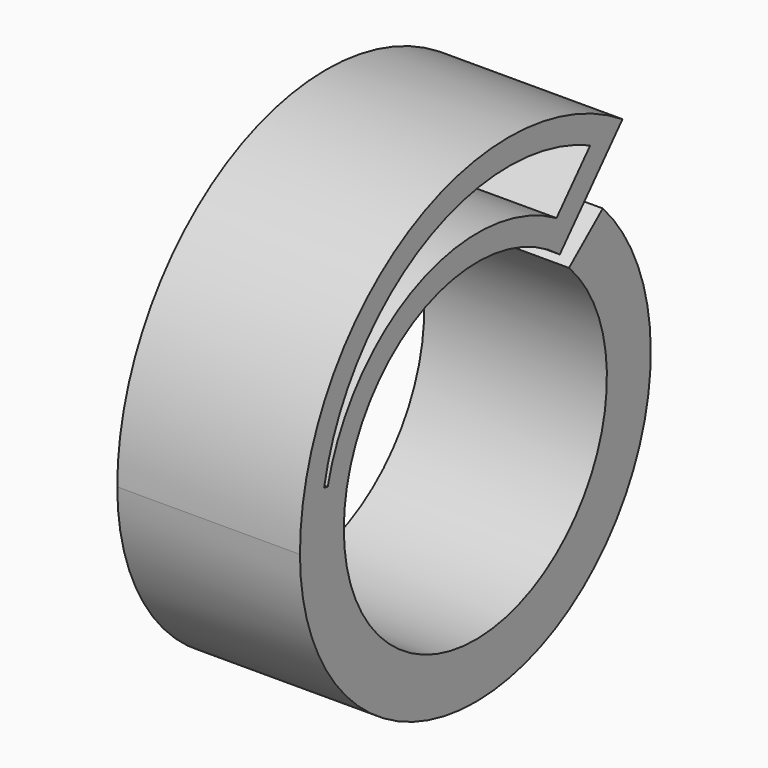
from build123d import *

# Parameters (mm, degrees)
F1_DEPTH = 2.5
F4_DEPTH = 25


with BuildPart() as f1:
    # F0 (on Right) → F1 (new body, symmetric)
    with BuildSketch(Plane.YZ):
        with BuildLine():
            ThreePointArc((3.202643, 3.161183), (1.708524, -4.163045), (-4.5, 0))
            ThreePointArc((-4.5, 0), (-1.933398, 4.11196), (2.888029, 3.61246))
            Line((2.888029, 3.61246), (5.033673, 6.000177))
            ThreePointArc((5.033673, 6.000177), (-2.266695, 6.27981), (-6, 0))
            ThreePointArc((-6, 0), (2.219356, -5.574447), (4.358153, 4.123894))
            Line((4.358153, 4.123894), (3.202643, 3.161183))
        make_face()
    extrude(amount=F1_DEPTH, both=True)

    # F3 (on face) → F4 (cut)
    with BuildSketch(Plane.YZ.offset(2.5)):
        with BuildLine():
            Line((2.775889, 4.534951), (3.928859, 5.817999))
            ThreePointArc((3.928859, 5.817999), (-1.733582, 5.768479), (-5.173602, 1.270486))
            Line((-5.173602, 1.270486), (-5.052092, 1.240646))
            ThreePointArc((-5.052092, 1.240646), (-1.969769, 4.864021), (2.775889, 4.534951))
        make_face()
    extrude(amount=-F4_DEPTH, mode=Mode.SUBTRACT)


with BuildPart() as f6:
    # F5 (on Right) → F6 (revolve)
    with BuildSketch(Plane.YZ):
        with BuildLine():
            Line((2.512218, 6.237931), (2.512218, 4.631747))
            ThreePointArc((2.512218, 4.631747), (3.31531, 5.434839), (2.512218, 6.237931))
        make_face()
    revolve(axis=Axis((0, 2.512218, 5.434839), (0, 0, -1)))


solid = Compound([f1.part, f6.part])
